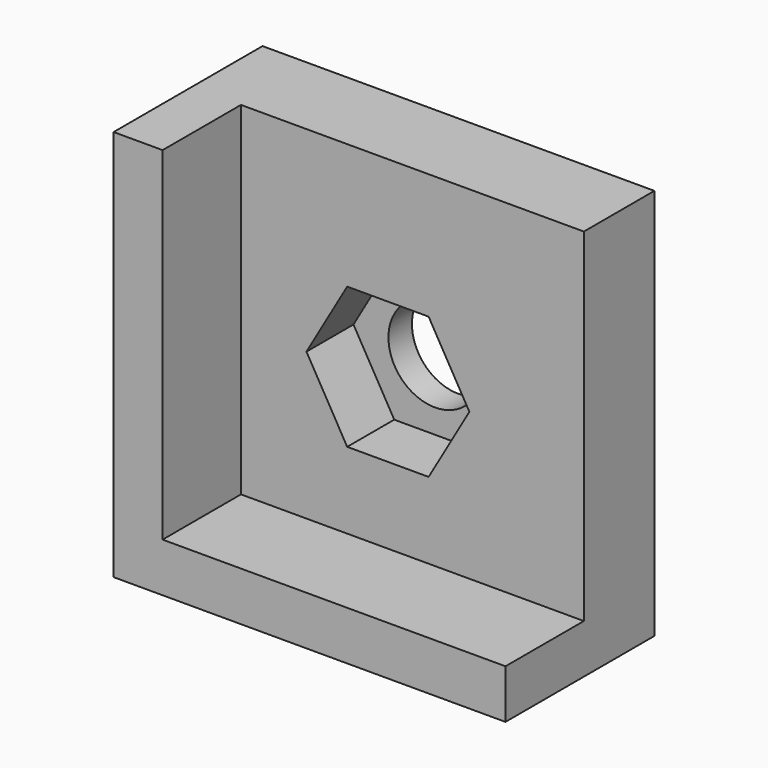
from build123d import *

# Parameters (mm, degrees)
F0_W     = 20
F0_H     = 20
F0_R     = 2.375
F1_DEPTH = 4.5
F3_DEPTH = 5
F4_R     = 2.375
F5_DEPTH = 3


with BuildPart() as f1:
    # F0 (on Front) → F1 (new body)
    with BuildSketch(Plane.XZ):
        with Locations((2.156144, 3.828467)):
            Rectangle(F0_W, F0_H)
        with Locations((2.156144, 3.828467)):
            Circle(F0_R, mode=Mode.SUBTRACT)
    extrude(amount=F1_DEPTH)

    # F2 (on face) → F3 (join)
    with BuildSketch(Plane.XZ.offset(4.5)):
        Polygon((-5.343856, 13.828467), (-7.843856, 13.828467), (-7.843856, -6.171533), (12.156144, -6.171533), (12.156144, -3.671533), (-5.343856, -3.671533), align=None)
    extrude(amount=F3_DEPTH)

    # F4 (on face) → F5 (cut)
    with BuildSketch(Plane.XZ.offset(4.5)):
        Polygon((0.077683, 7.428467), (-2.000778, 3.828467), (0.077683, 0.228467), (4.234605, 0.228467), (6.313066, 3.828467), (4.234605, 7.428467), align=None)
        with Locations((2.156144, 3.828467)):
            Circle(F4_R, mode=Mode.SUBTRACT)
    extrude(amount=-F5_DEPTH, mode=Mode.SUBTRACT)


solid = f1.part
